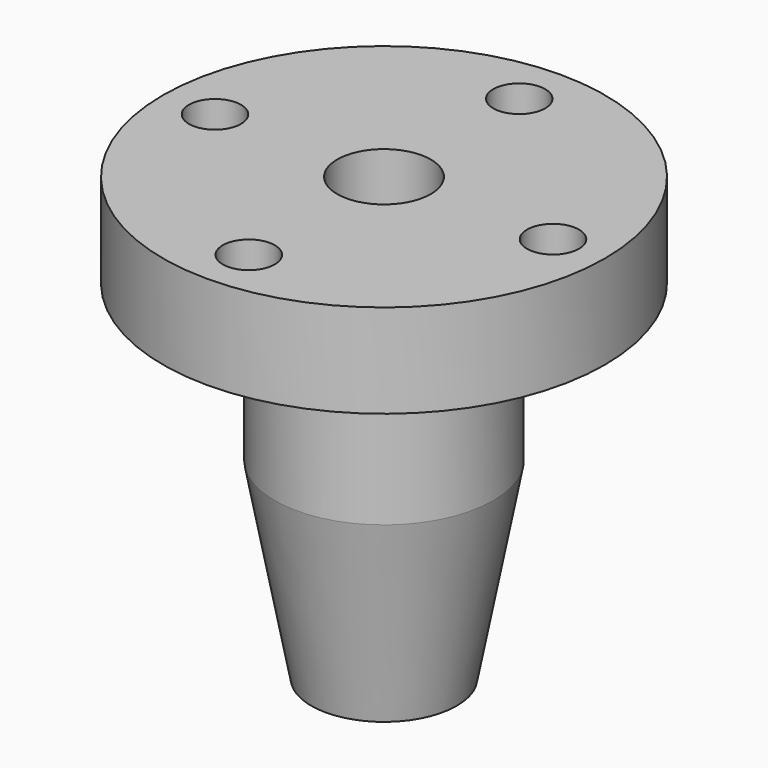
from build123d import *

# Parameters (mm, degrees)
F3_D     = 254
F3_DEPTH = 762


with BuildPart() as f1:
    # F0 (on Front) → F1 (revolve)
    with BuildSketch(Plane.XZ):
        Polygon((-19.960343, 2051.036781), (-19.960343, -107.963219), (107.039657, -107.963219), (284.839657, 831.836781), (284.839657, 1593.836781), (830.939657, 1593.836781), (830.939657, 2051.036781), align=None)
    revolve(axis=Axis((-248.646677, 0, 822.535384), (0, 0, -1)))

    # F3
    with Locations(Plane(origin=(0, 0, 1593.836781), x_dir=(1, 0, 0), z_dir=(0, 0, -1))):
        with Locations((-248.646677, 825.5), (-1074.146677, 0), (-248.646677, -825.5), (576.853323, 0)):
            Hole(F3_D / 2, depth=F3_DEPTH)


solid = f1.part
